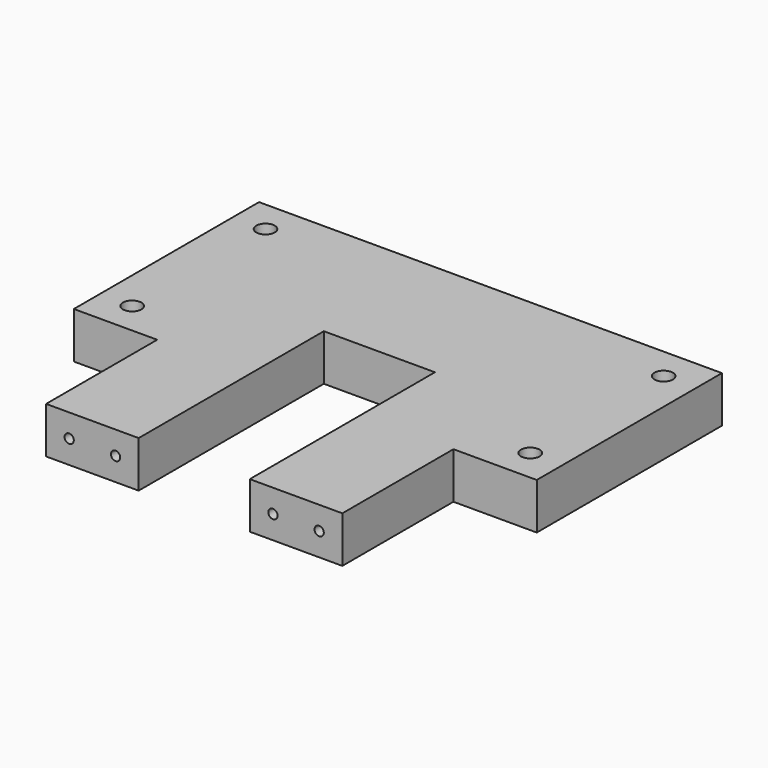
from build123d import *

# Parameters (mm, degrees)
SKETCH001_R  = 1
PAD_DEPTH    = 5
SKETCH002_R  = 0.5
POCKET_DEPTH = 10


with BuildPart() as part:
    # Sketch001 → Pad (new body)
    with BuildSketch(Plane.XY):
        Polygon((9, 0), (9, 15), (0, 15), (0, 40), (50, 40), (50, 15), (41, 15), (41, 0), (31, 0), (31, 25), (19, 25), (19, 0), align=None)
        with Locations((46.504002, 36.501442)):
            Circle(SKETCH001_R, mode=Mode.SUBTRACT)
        with Locations((3.500559, 36.501442)):
            Circle(SKETCH001_R, mode=Mode.SUBTRACT)
        with Locations((3.500559, 18.503159)):
            Circle(SKETCH001_R, mode=Mode.SUBTRACT)
        with Locations((46.496666, 18.503159)):
            Circle(SKETCH001_R, mode=Mode.SUBTRACT)
    extrude(amount=PAD_DEPTH)

    # Sketch002 (on Face9 of Pad) → Pocket (cut)
    with BuildSketch(Plane.XZ):
        with Locations((38.496052, 2.503616)):
            Circle(SKETCH002_R)
        with Locations((33.499767, 2.503616)):
            Circle(SKETCH002_R)
        with Locations((16.502573, 2.498577)):
            Circle(SKETCH002_R)
        with Locations((11.496223, 2.503616)):
            Circle(SKETCH002_R)
    extrude(amount=-POCKET_DEPTH, mode=Mode.SUBTRACT)


solid = part.part
